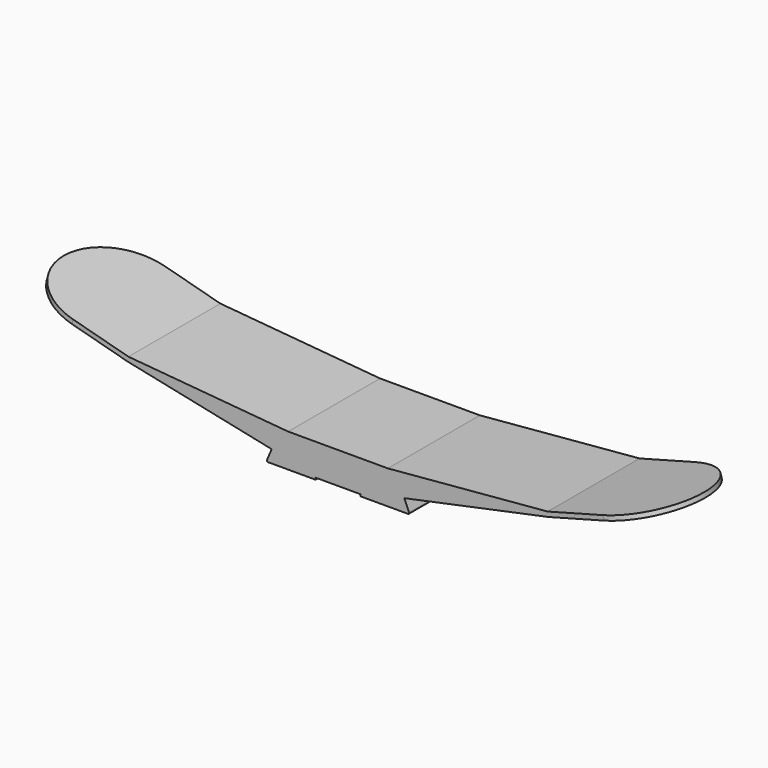
from build123d import *

# Parameters (mm, degrees)
F1_DEPTH = 50
F2_W     = 25.7950418632
F2_H     = 50
F3_DEPTH = 9.8


with BuildPart() as f1:
    # F0 (on Front) → F1 (new body)
    with BuildSketch(Plane.XZ):
        with BuildLine():
            Line((28.7462828253, -6.7756745863), (26.6938590785, -11.5792195258))
            ThreePointArc((26.6938590785, -11.5792195258), (26.7363781025, -12.0511491494), (27.153647518, -12.2756745863))
            Line((27.153647518, -12.2756745863), (47.853647518, -12.2756745863))
            Line((47.853647518, -12.2756745863), (47.853647518, -11.4756745863))
            Line((47.853647518, -11.4756745863), (57.5962825562, -11.4756745863))
            Line((57.5962825562, -11.4756745863), (57.5962825562, 2.2953939865))
            Line((57.5962825562, 2.2953939865), (35.9046725562, 2.2953939865))
            Line((35.9046725562, 2.2953939865), (-33.5676551256, 8.3734350875))
            Line((-33.5676551256, 8.3734350875), (-81.6949312565, 21.2690998606))
            ThreePointArc((-81.6949312565, 21.2690998606), (-82.9196765939, 20.5619928104), (-82.2125695437, 19.337247473))
            Line((-82.2125695437, 19.337247473), (-33.9162782292, 6.3962952179))
            Line((-33.9162782292, 6.3962952179), (35.8173506372, 0.2953932255))
            Line((35.8173506372, 0.2953932255), (28.7462828253, -6.7756745863))
        make_face()
        Polygon((-33.9162782292, 6.3962952179), (28.7462828253, -6.7756745863), (35.8173506372, 0.2953932255), align=None)
    extrude(amount=F1_DEPTH)

    # F2 (on face) → F3 (cut)
    with BuildSketch(Plane(origin=(-0.1552477488, 0, -0.5793924863), x_dir=(0.9659258263, 0, -0.2588190451), z_dir=(0.2588190451, 0, 0.9659258263))):
        with BuildLine():
            Line((-84.4160920937, -50), (-59.5035807905, -50))
            ThreePointArc((-59.5035807905, -50), (-84.3714830361, -25), (-59.5035807905, 0))
            Line((-59.5035807905, 0), (-84.4160920937, 0))
            Line((-84.4160920937, 0), (-84.4160920937, -50))
        make_face()
        with Locations((-97.3136130253, -25)):
            Rectangle(F2_W, F2_H)
    extrude(amount=-F3_DEPTH, mode=Mode.SUBTRACT)

    # F4: F1 across face


with BuildPart() as f1_1:
    add(f1.part)
    add(f1.part.mirror(Plane(origin=(57.5962825562, -25, -4.5901402999), x_dir=(0, 1, 0), z_dir=(1, 0, 0))))


solid = f1_1.part
